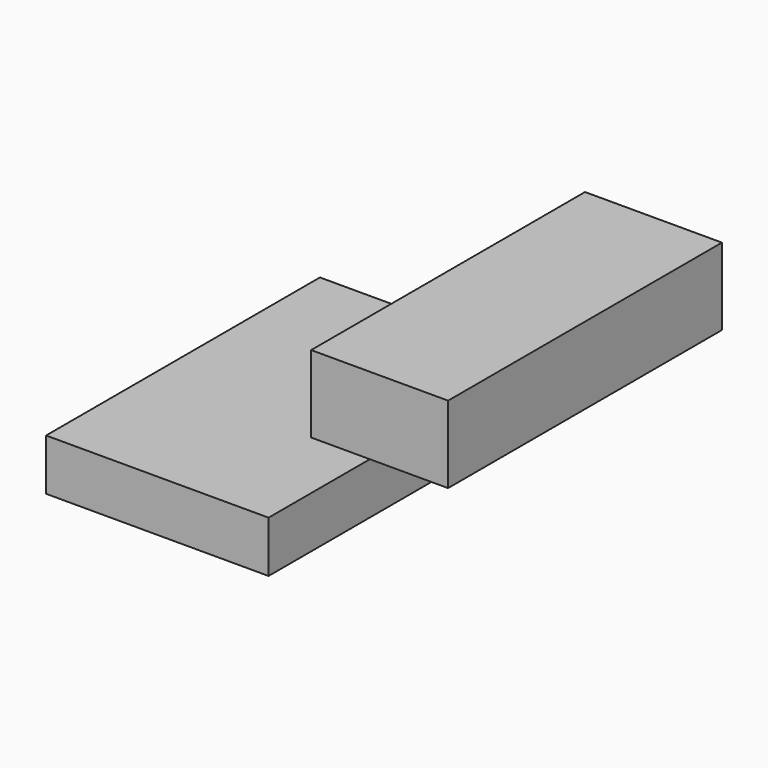
from build123d import *

# Parameters (mm, degrees)
F0_W     = 82.55
F0_H     = 19.05
F1_DEPTH = 63.5


with BuildPart() as f1:
    # F0 (on Front) → F1 (new body, symmetric)
    with BuildSketch(Plane.XZ):
        Polygon((57.082448, 69.410903), (57.082448, 62.846842), (57.082448, 40.835903), (107.882448, 40.835903), (107.882448, 69.410903), align=None)
        Rectangle(F0_W, F0_H)
    extrude(amount=F1_DEPTH, both=True)


solid = f1.part
